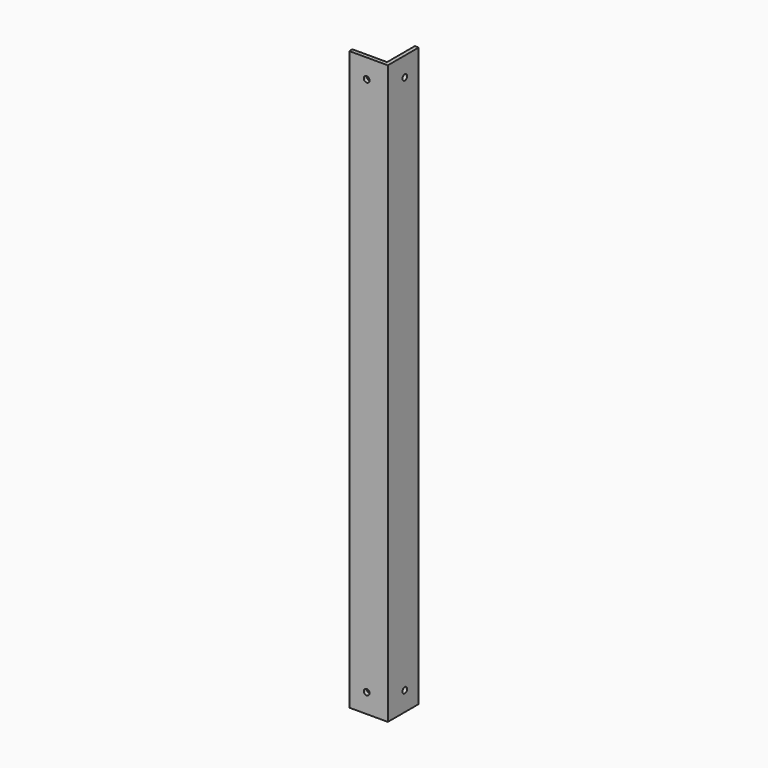
from build123d import *

# Parameters (mm, degrees)
F1_DEPTH = 150
F2_R     = 1.5
F3_DEPTH = 20.001
F4_R     = 1.5
F5_DEPTH = 20.001


with BuildPart() as f1:
    # F0 (on Top) → F1 (new body, symmetric)
    with BuildSketch(Plane.XY):
        Polygon((-20, 0), (0, 0), (0, 20), (-2, 20), (-2, 2), (-20, 2), align=None)
    extrude(amount=F1_DEPTH, both=True)

    # F2 (on face) → F3 (cut, through all)
    with BuildSketch(Plane.YZ):
        with Locations((11, 140)):
            Circle(F2_R)
        with Locations((11, -140)):
            Circle(F2_R)
    extrude(amount=-F3_DEPTH, mode=Mode.SUBTRACT)

    # F4 (on face) → F5 (cut, through all)
    with BuildSketch(Plane.XZ):
        with Locations((-11, 140)):
            Circle(F4_R)
        with Locations((-11, -140)):
            Circle(F4_R)
    extrude(amount=-F5_DEPTH, mode=Mode.SUBTRACT)


solid = f1.part
